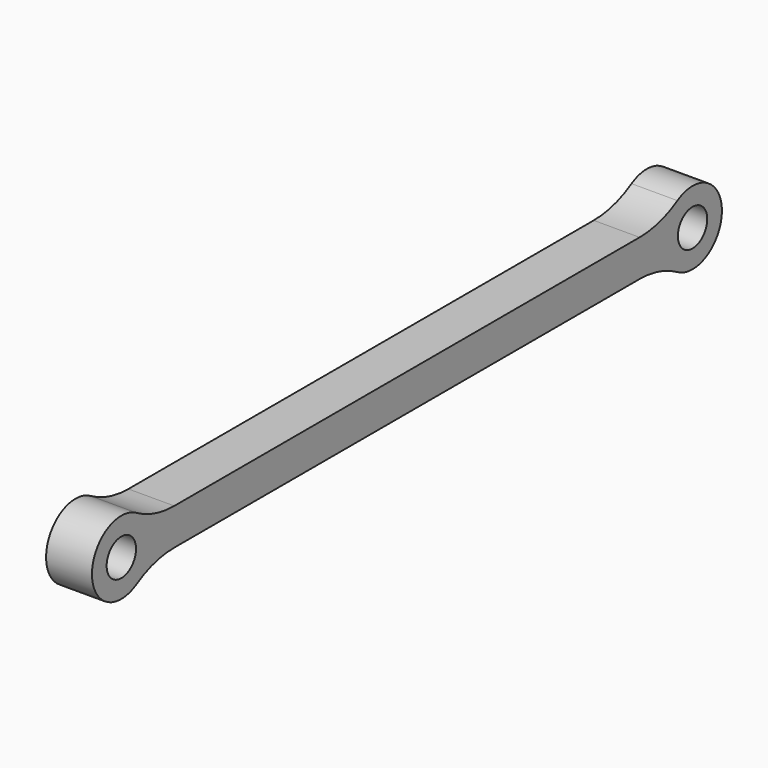
from build123d import *

# Parameters (mm, degrees)
F0_R     = 1
F1_DEPTH = 2.5


with BuildPart() as f1:
    # F0 (on Right) → F1 (new body)
    with BuildSketch(Plane.YZ):
        with BuildLine():
            Line((-15.844449, -1), (15.844449, -1))
            ThreePointArc((15.844449, -1), (17.180755, -1.181879), (18.419842, -1.714286))
            ThreePointArc((18.419842, -1.714286), (21.45, 0), (18.419842, 1.714286))
            ThreePointArc((18.419842, 1.714286), (17.180755, 1.181879), (15.844449, 1))
            Line((15.844449, 1), (-15.844449, 1))
            ThreePointArc((-15.844449, 1), (-17.180755, 1.181879), (-18.419842, 1.714286))
            ThreePointArc((-18.419842, 1.714286), (-21.45, 0), (-18.419842, -1.714286))
            ThreePointArc((-18.419842, -1.714286), (-17.180755, -1.181879), (-15.844449, -1))
        make_face()
        with Locations((-19.45, 0)):
            Circle(F0_R, mode=Mode.SUBTRACT)
        with Locations((19.45, 0)):
            Circle(F0_R, mode=Mode.SUBTRACT)
    extrude(amount=F1_DEPTH)


solid = f1.part
